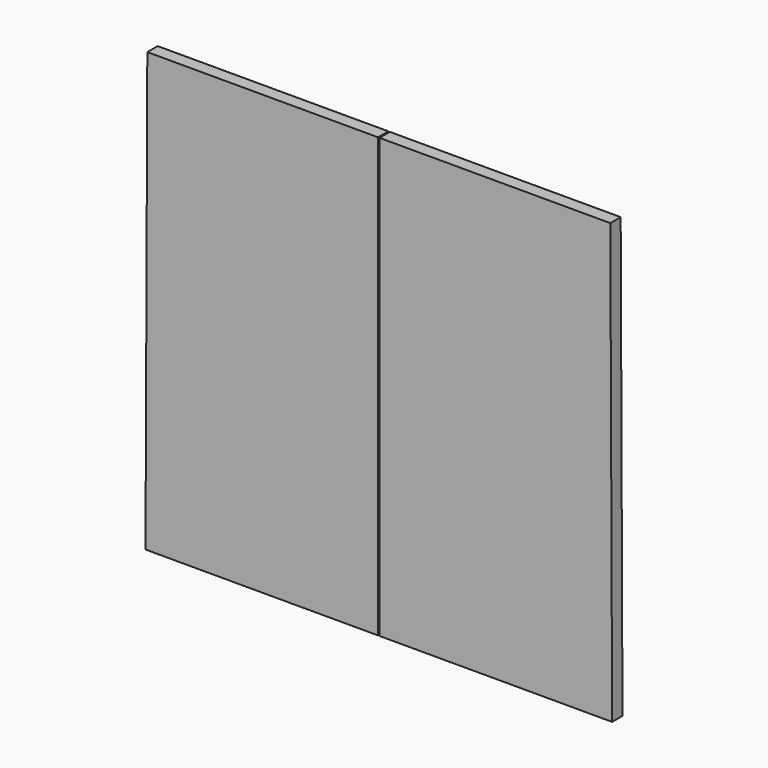
from build123d import *

# Parameters (mm, degrees)
F1_DEPTH = 18
F2_R     = 17.5
F3_DEPTH = 12


with BuildPart() as f1:
    # F0 (on Front) → F1 (new body)
    with BuildSketch(Plane.XZ):
        Polygon((321.5, 608.994869), (1, 608.994869), (1, 0), (324, 0), align=None)
        Polygon((-324, 0), (-1, 0), (-1, 608.994869), (-321.5, 608.994869), align=None)
    extrude(amount=F1_DEPTH)

    # F2 (on face) → F3 (cut)
    with BuildSketch(Plane(origin=(0, 0, 0), x_dir=(-1, 0, 0), z_dir=(0, 1, 0))):
        with Locations((-299.615579, 458.994869)):
            Circle(F2_R)
        with Locations((-299.615579, 150)):
            Circle(F2_R)
        with Locations((300.884042, 458.994869)):
            Circle(F2_R)
        with Locations((300.884042, 150)):
            Circle(F2_R)
    extrude(amount=-F3_DEPTH, mode=Mode.SUBTRACT)


solid = f1.part
